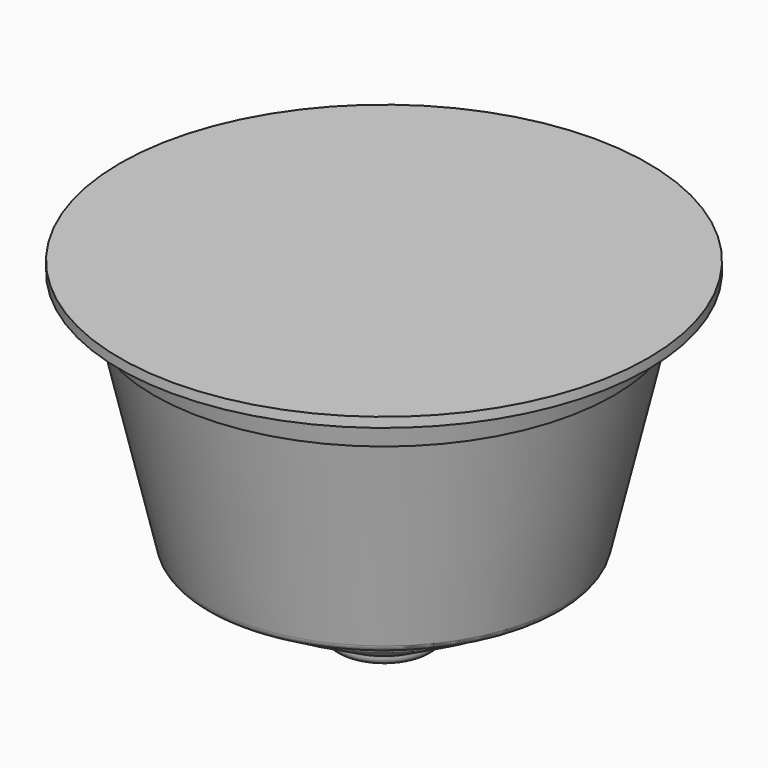
from build123d import *

# Parameters (mm, degrees)
FILLET_R    = 0.9
FILLET001_R = 1
FILLET002_R = 0.5


with BuildPart() as part:
    # Sketch → Revolution (revolve)
    with BuildSketch(Plane.XZ):
        Polygon((0, 0), (2.5, 0), (3, -2.5), (5, -2.5), (5, -1.5), (14, 3.5), (14, 5.5), (18, 5.5), (23, 27), (23.5, 27), (24.197674, 30), (27, 30.5), (27, 31.5), (0, 31.5), align=None)
    revolve(axis=Axis((0, 0, 0), (0, 0, 1)))

    # Fillet
    fillet_edges = [part.edges().sort_by_distance(p)[0] for p in [
        (-3, 0, -2.5),
        (-5, 0, -2.5),
    ]]
    fillet(fillet_edges, radius=FILLET_R)

    # Fillet001
    fillet001_edges = [part.edges().sort_by_distance(p)[0] for p in [
        (-18, 0, 5.5),
    ]]
    fillet(fillet001_edges, radius=FILLET001_R)

    # Fillet002
    fillet002_edges = [part.edges().sort_by_distance(p)[0] for p in [
        (-14, 0, 3.5),
        (-14, 0, 5.5),
    ]]
    fillet(fillet002_edges, radius=FILLET002_R)


solid = part.part
